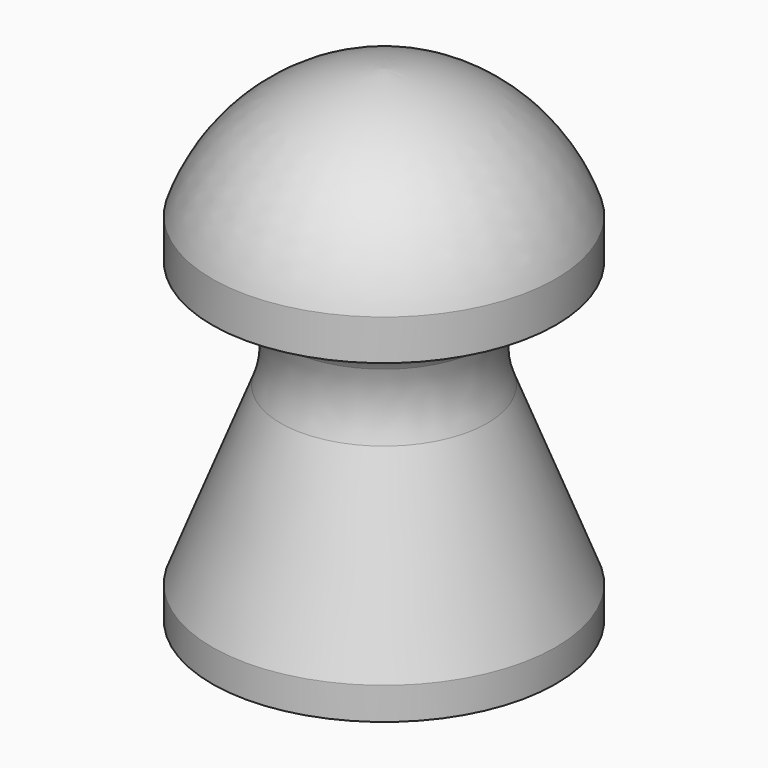
from build123d import *


with BuildPart() as f1:
    # F0 (on Front) → F1 (revolve)
    with BuildSketch(Plane.XZ):
        with BuildLine():
            Line((1.678451, 1.161043), (2.029531, 0))
            Line((2.029531, 0), (2.78785, 0))
            Line((2.78785, 0), (2.78785, 0.523952))
            Line((2.78785, 0.523952), (1.678451, 3.359864))
            ThreePointArc((1.678451, 3.359864), (1.574949, 3.908541), (1.678451, 4.457218))
            ThreePointArc((1.678451, 4.457218), (2.129711, 4.962298), (2.78785, 5.122282))
            Line((2.78785, 5.122282), (2.78785, 5.780907))
            ThreePointArc((2.78785, 5.780907), (1.716199, 7.257328), (0, 7.876131))
            Line((0, 7.876131), (0, 7.549762))
            Line((0, 7.549762), (0, 1.161043))
            Line((0, 1.161043), (1.678451, 1.161043))
        make_face()
    revolve(axis=Axis((0, 0, 4.355402), (0, 0, 1)))


solid = f1.part
